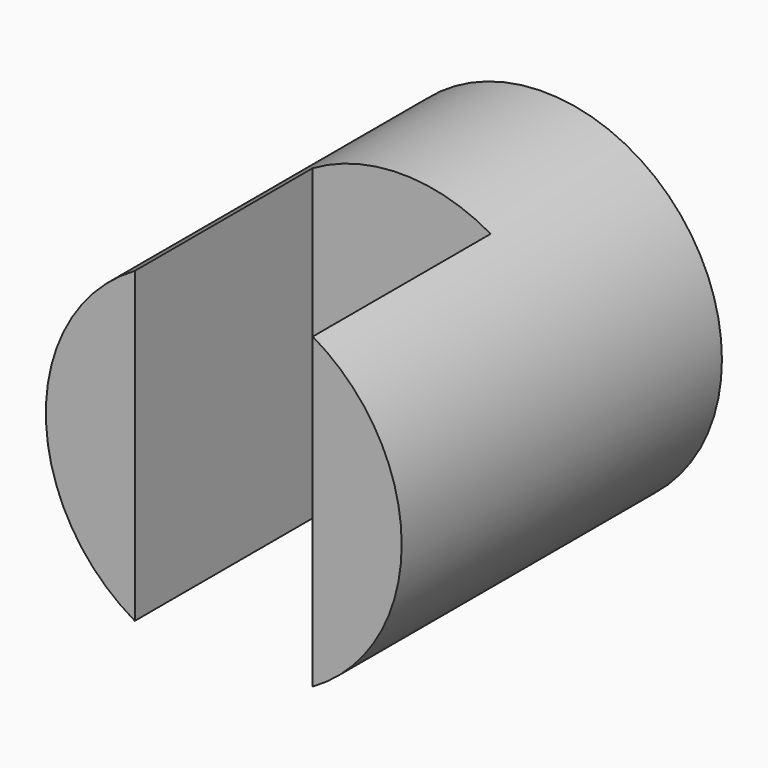
from build123d import *

# Parameters (mm, degrees)
F0_R     = 40
F1_DEPTH = 90
F3_DEPTH = 50


with BuildPart() as f1:
    # F0 (on Front) → F1 (new body)
    with BuildSketch(Plane.XZ):
        Circle(F0_R)
    extrude(amount=F1_DEPTH)

    # F2 (on face) → F3 (cut)
    with BuildSketch(Plane.XZ.offset(90)):
        with BuildLine():
            Line((-20, 34.641016), (-20, 0))
            Line((-20, 0), (-20, -34.641016))
            ThreePointArc((-20, -34.641016), (0, -40), (20, -34.641016))
            Line((20, -34.641016), (20, 0))
            Line((20, 0), (20, 34.641016))
            ThreePointArc((20, 34.641016), (0, 40), (-20, 34.641016))
        make_face()
    extrude(amount=-F3_DEPTH, mode=Mode.SUBTRACT)


solid = f1.part
